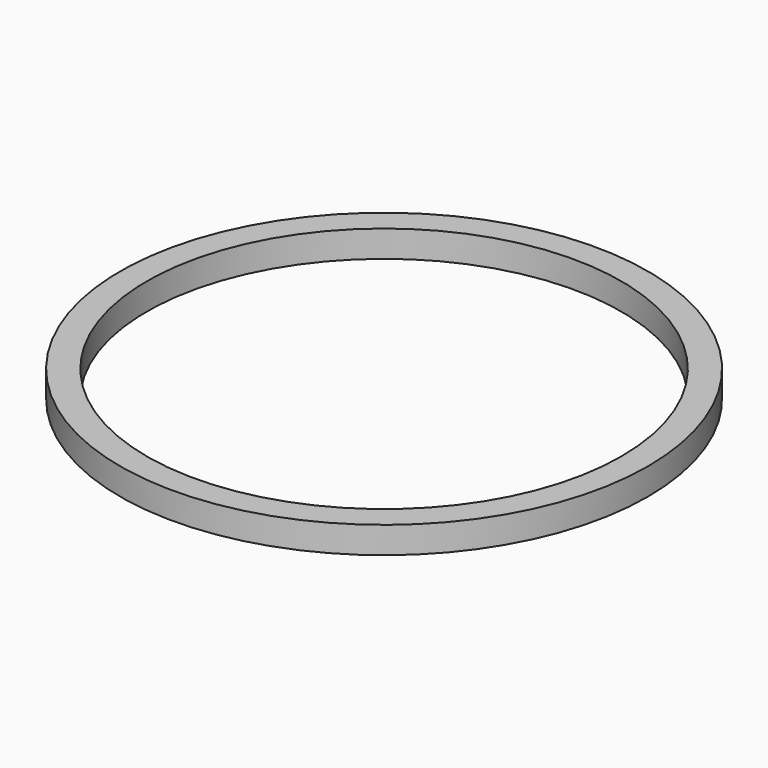
from build123d import *

# Parameters (mm, degrees)
F0_W = 2.5
F0_H = 2.5


with BuildPart() as f2:
    # F2: sweep along a path in F1
    with BuildLine(Plane.XY) as f2_path:
        ThreePointArc((0, 0), (23.45, 23.45), (46.9, 0))
        ThreePointArc((46.9, 0), (23.45, -23.45), (0, 0))
    # F0 (on Front) → F2 (sweep)
    with BuildSketch(Plane.XZ):
        Rectangle(F0_W, F0_H)
    sweep(path=f2_path.line)


solid = f2.part
